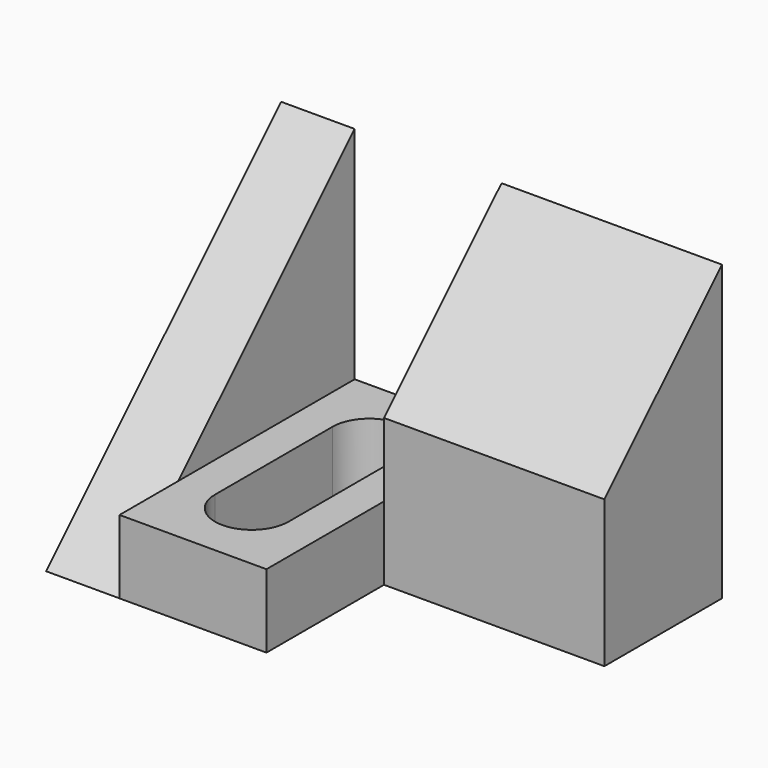
from build123d import *

# Parameters (mm, degrees)
F0_W     = 12.7
F0_H     = 25.4
F1_DEPTH = 6.35
F3_DEPTH = 19.05
F5_DEPTH = 6.35


with BuildPart() as f1:
    # F0 (on Top) → F1 (new body)
    with BuildSketch(Plane.XY):
        with Locations((6.35, -12.7)):
            Rectangle(F0_W, F0_H)
        with BuildLine():
            Line((3.175, -19.05), (3.175, -6.35))
            ThreePointArc((3.175, -6.35), (6.35, -3.175), (9.525, -6.35))
            Line((9.525, -6.35), (9.525, -19.05))
            ThreePointArc((9.525, -19.05), (6.35, -22.225), (3.175, -19.05))
        make_face(mode=Mode.SUBTRACT)
    extrude(amount=F1_DEPTH)

    # F2 (on face) → F3 (join)
    with BuildSketch(Plane.YZ.offset(12.7)):
        Polygon((-12.7, 0), (0, 0), (0, 25.4), (-12.7, 12.7), align=None)
    extrude(amount=F3_DEPTH)

    # F4 (on face) → F5 (join)
    with BuildSketch(Plane(origin=(0, 0, 0), x_dir=(0, -1, 0), z_dir=(-1, 0, 0))):
        Polygon((0, 25.4), (0, 0), (25.4, 0), align=None)
    extrude(amount=F5_DEPTH)


solid = f1.part
